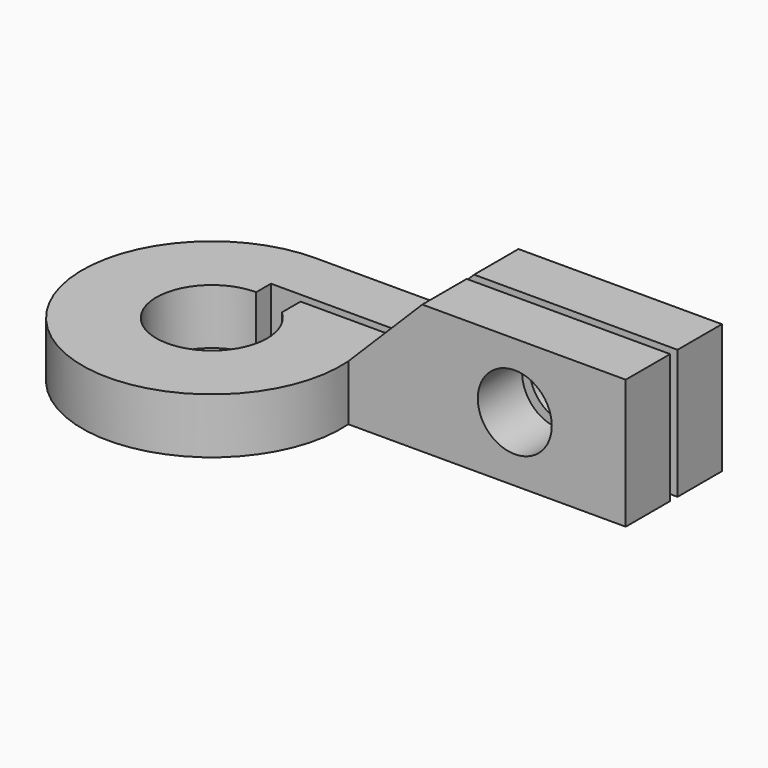
from build123d import *

# Parameters (mm, degrees)
F1_DEPTH = 3
F2_W     = 15
F2_H     = 3
F3_DEPTH = 4
F5_DEPTH = 6.501
F6_R     = 2
F7_DEPTH = 6.501


with BuildPart() as f1:
    # F0 (on Top) → F1 (new body)
    with BuildSketch(Plane.XY):
        with BuildLine():
            ThreePointArc((2, 2.236068), (-1.070466, -2.802517), (0, 3))
            Line((0, 3), (0, 4))
            Line((0, 4), (21.98212, 4))
            Line((21.98212, 4), (21.98212, 7))
            Line((21.98212, 7), (0, 7))
            ThreePointArc((0, 7), (-4.769696, -5.123475), (6.98212, 0.5))
            Line((6.98212, 0.5), (21.98212, 0.5))
            Line((21.98212, 0.5), (21.98212, 3.5))
            Line((21.98212, 3.5), (2, 3.5))
            Line((2, 3.5), (2, 2.236068))
        make_face()
    extrude(amount=F1_DEPTH)

    # F2 (on face) → F3 (join)
    with BuildSketch(Plane.XY.offset(3)):
        with Locations((14.48212, 5.5)):
            Rectangle(F2_W, F2_H)
        with Locations((14.48212, 2)):
            Rectangle(F2_W, F2_H)
    extrude(amount=F3_DEPTH)

    # F4 (on face) → F5 (cut, through all)
    with BuildSketch(Plane.XZ.offset(-0.5)):
        Polygon((6.98212, 7), (6.98212, 3), (10.98212, 7), align=None)
    extrude(amount=-F5_DEPTH, mode=Mode.SUBTRACT)

    # F6 (on face) → F7 (cut, through all)
    with BuildSketch(Plane.XZ.offset(-0.5)):
        with Locations((15.98212, 3.5)):
            Circle(F6_R)
    extrude(amount=-F7_DEPTH, mode=Mode.SUBTRACT)


solid = f1.part
